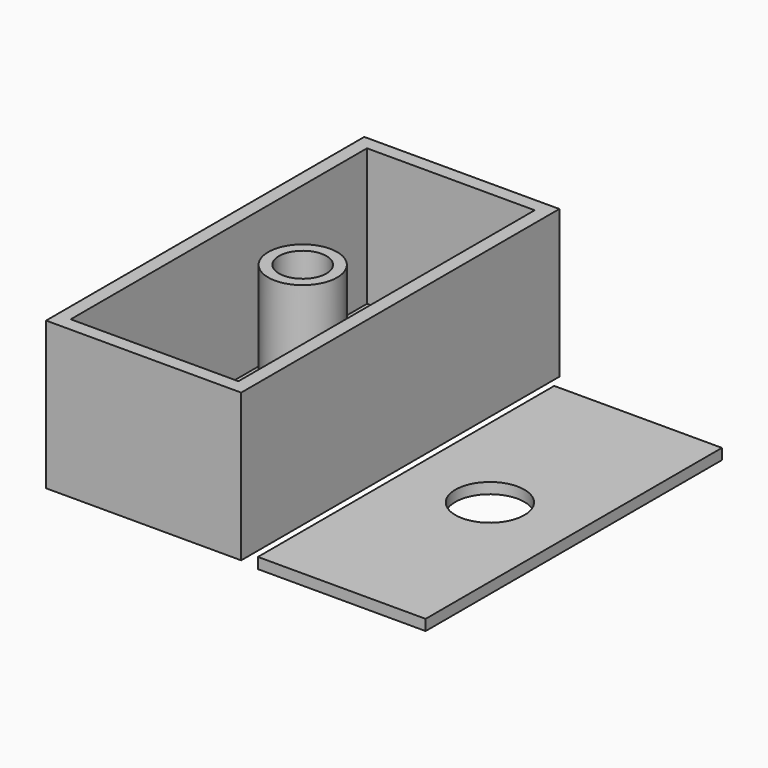
from build123d import *

# Parameters (mm, degrees)
F0_W     = 90.5
F0_H     = 184.5
F0_R     = 11
F1_DEPTH = 68.5
F2_W     = 77.8
F2_H     = 171.8
F2_R     = 16
F3_DEPTH = 63.5
F4_W     = 77.8
F4_H     = 171.8
F4_R     = 16
F5_DEPTH = 5


with BuildPart() as f1:
    # F0 (on Top) → F1 (new body)
    with BuildSketch(Plane.XY):
        with Locations((-8.034482, 57.724688)):
            Rectangle(F0_W, F0_H)
        with Locations((-8.034482, 57.724688)):
            Circle(F0_R, mode=Mode.SUBTRACT)
    extrude(amount=F1_DEPTH)

    # F2 (on face) → F3 (cut)
    with BuildSketch(Plane.XY.offset(68.5)):
        with Locations((-8.034482, 57.724688)):
            Rectangle(F2_W, F2_H)
        with Locations((-8.034482, 57.724688)):
            Circle(F2_R, mode=Mode.SUBTRACT)
    extrude(amount=-F3_DEPTH, mode=Mode.SUBTRACT)


with BuildPart() as f5:
    # F4 (on Top) → F5 (new body)
    with BuildSketch(Plane.XY):
        with Locations((85.166001, 49.783996)):
            Rectangle(F4_W, F4_H)
        with Locations((85.166001, 49.783996)):
            Circle(F4_R, mode=Mode.SUBTRACT)
    extrude(amount=F5_DEPTH)


solid = Compound([f1.part, f5.part])
